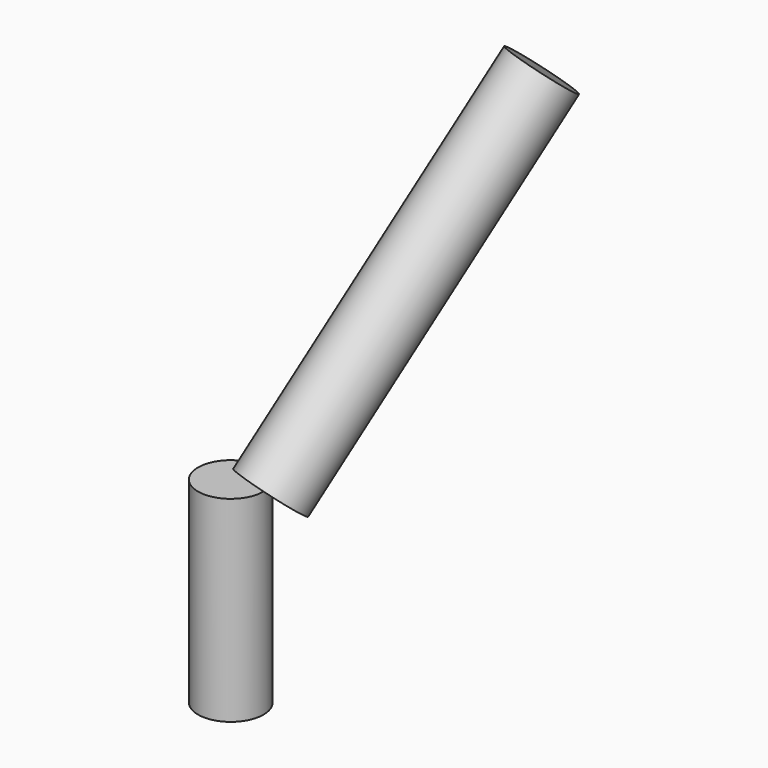
from build123d import *

# Parameters (mm, degrees)
F0_R     = 8.466667
F1_DEPTH = 50.8
F2_R     = 8.995943
F3_DEPTH = 101.6
F6_ANGLE = -55


with BuildPart() as f1:
    # F0 (on Top) → F1 (new body)
    with BuildSketch(Plane.XY):
        Circle(F0_R)
    extrude(amount=F1_DEPTH)


with BuildPart() as f3:
    # F2 (on Top) → F3 (new body)
    with BuildSketch(Plane.XY):
        with Locations((50.941616, 0)):
            Circle(F2_R)
    extrude(amount=F3_DEPTH)


with BuildPart() as f3_1:
    # F4: moved
    add(f3.part.moved(Location((-41.91, 0, 50.8))))


with BuildPart() as f3_2:
    # F6: moved
    add(f3_1.part.rotate(Axis((32.809857, 0, 71.341565), (0.727847, 0, 0.68574)), F6_ANGLE))


solid = Compound([f1.part, f3_2.part])
